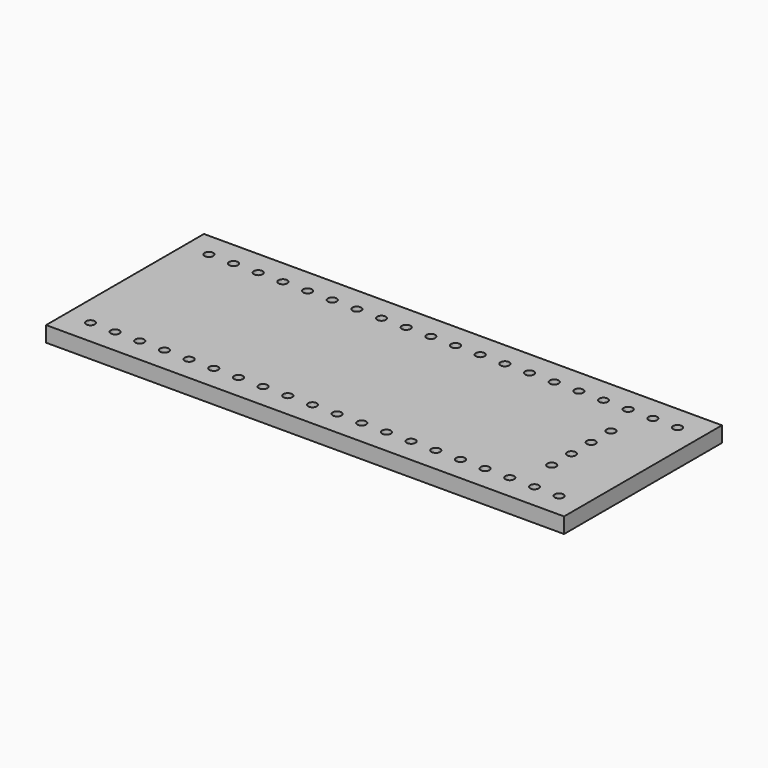
from build123d import *

# Parameters (mm, degrees)
SKETCH_W     = 53.34
SKETCH_H     = 20.32
PAD_DEPTH    = 1.6
SKETCH001_R  = 0.45
POCKET_DEPTH = 5


with BuildPart() as part:
    # Sketch → Pad (new body)
    with BuildSketch(Plane.XY):
        Rectangle(SKETCH_W, SKETCH_H)
    extrude(amount=-PAD_DEPTH)

    # Sketch001 (on Face5 of Pad) → Pocket (cut)
    with BuildSketch(Plane.XY):
        with Locations((-24.13, 7.62)):
            Circle(SKETCH001_R)
        with Locations((-21.59, 7.619987)):
            Circle(SKETCH001_R)
        with Locations((-19.05, 7.619987)):
            Circle(SKETCH001_R)
        with Locations((-16.51, 7.619987)):
            Circle(SKETCH001_R)
        with Locations((-13.97, 7.619987)):
            Circle(SKETCH001_R)
        with Locations((-11.43, 7.619987)):
            Circle(SKETCH001_R)
        with Locations((-8.89, 7.619987)):
            Circle(SKETCH001_R)
        with Locations((-6.35, 7.619987)):
            Circle(SKETCH001_R)
        with Locations((-3.81, 7.619987)):
            Circle(SKETCH001_R)
        with Locations((-1.27, 7.619987)):
            Circle(SKETCH001_R)
        with Locations((1.27, 7.619987)):
            Circle(SKETCH001_R)
        with Locations((3.81, 7.619987)):
            Circle(SKETCH001_R)
        with Locations((6.35, 7.619987)):
            Circle(SKETCH001_R)
        with Locations((8.89, 7.619987)):
            Circle(SKETCH001_R)
        with Locations((11.43, 7.619987)):
            Circle(SKETCH001_R)
        with Locations((13.97, 7.619987)):
            Circle(SKETCH001_R)
        with Locations((16.51, 7.619987)):
            Circle(SKETCH001_R)
        with Locations((19.05, 7.619987)):
            Circle(SKETCH001_R)
        with Locations((21.59, 7.619987)):
            Circle(SKETCH001_R)
        with Locations((24.13, 7.619987)):
            Circle(SKETCH001_R)
        with Locations((-24.13, -7.62)):
            Circle(SKETCH001_R)
        with Locations((-21.59, -7.62)):
            Circle(SKETCH001_R)
        with Locations((-19.05, -7.62)):
            Circle(SKETCH001_R)
        with Locations((-16.51, -7.62)):
            Circle(SKETCH001_R)
        with Locations((-13.97, -7.62)):
            Circle(SKETCH001_R)
        with Locations((-11.43, -7.62)):
            Circle(SKETCH001_R)
        with Locations((-8.89, -7.62)):
            Circle(SKETCH001_R)
        with Locations((-6.35, -7.62)):
            Circle(SKETCH001_R)
        with Locations((-3.81, -7.62)):
            Circle(SKETCH001_R)
        with Locations((-1.27, -7.62)):
            Circle(SKETCH001_R)
        with Locations((1.27, -7.62)):
            Circle(SKETCH001_R)
        with Locations((3.81, -7.62)):
            Circle(SKETCH001_R)
        with Locations((6.35, -7.62)):
            Circle(SKETCH001_R)
        with Locations((8.89, -7.62)):
            Circle(SKETCH001_R)
        with Locations((11.43, -7.62)):
            Circle(SKETCH001_R)
        with Locations((13.97, -7.62)):
            Circle(SKETCH001_R)
        with Locations((16.51, -7.62)):
            Circle(SKETCH001_R)
        with Locations((19.05, -7.62)):
            Circle(SKETCH001_R)
        with Locations((21.59, -7.62)):
            Circle(SKETCH001_R)
        with Locations((24.13, -7.62)):
            Circle(SKETCH001_R)
        with Locations((20.32, 3.81)):
            Circle(SKETCH001_R)
        with Locations((20.32, 1.27)):
            Circle(SKETCH001_R)
        with Locations((20.32, -1.27)):
            Circle(SKETCH001_R)
        with Locations((20.32, -3.81)):
            Circle(SKETCH001_R)
    extrude(amount=-POCKET_DEPTH, mode=Mode.SUBTRACT)


solid = part.part
